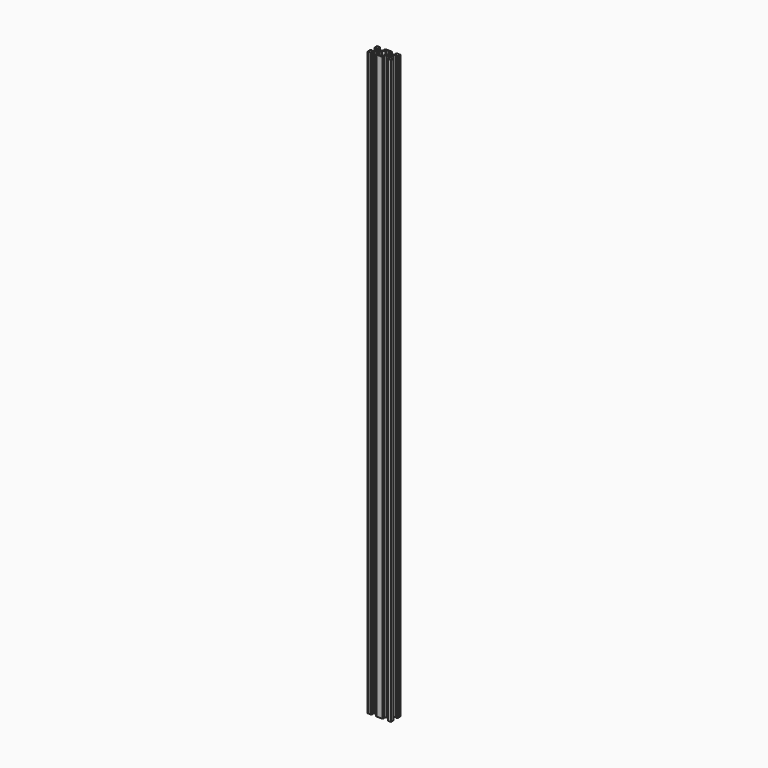
from build123d import *

# Parameters (mm, degrees)
SKETCH_R         = 2.1
PAD_DEPTH        = 1000
CHAMFER_1_ANGLE  = 45
CHAMFER_1_SIZE   = 1.7
CHAMFER_2_ANGLE  = 45
CHAMFER_2_SIZE   = 1.7
CHAMFER_3_ANGLE  = 45
CHAMFER_3_SIZE   = 1.7
CHAMFER_4_ANGLE  = 45
CHAMFER_4_SIZE   = 1.7
CHAMFER_5_ANGLE  = 45
CHAMFER_5_SIZE   = 1.7
CHAMFER_6_ANGLE  = 45
CHAMFER_6_SIZE   = 1.7
CHAMFER_7_ANGLE  = 45
CHAMFER_7_SIZE   = 1.7
CHAMFER_8_ANGLE  = 45
CHAMFER_8_SIZE   = 1.7
CHAMFER_9_ANGLE  = 45
CHAMFER_9_SIZE   = 1.7
CHAMFER_10_ANGLE = 45
CHAMFER_10_SIZE  = 1.7
CHAMFER_11_ANGLE = 45
CHAMFER_11_SIZE  = 1.7
CHAMFER_12_ANGLE = 45
CHAMFER_12_SIZE  = 1.7
FILLET_R         = 0.2


with BuildPart() as part:
    # Sketch → Pad (new body)
    with BuildSketch(Plane.XY):
        Polygon((0, 3.723883), (0.176777, 3.90066), (2.84, 3.90066), (5.49934, 6.56), (5.49934, 8.2), (3.1, 8.2), (3.1, 10), (16.9, 10), (16.9, 8.2), (14.50066, 8.2), (14.50066, 6.56), (17.16, 3.90066), (19.823223, 3.90066), (20, 3.723883), (20.176777, 3.90066), (22.84, 3.90066), (25.49934, 6.56), (25.49934, 8.2), (23.1, 8.2), (23.1, 10), (30, 10), (30, 3.1), (28.2, 3.1), (28.2, 5.49934), (26.56, 5.49934), (23.90066, 2.84), (23.90066, 0.176777), (23.723883, 0), (23.90066, -0.176777), (23.90066, -2.84), (26.56, -5.49934), (28.2, -5.49934), (28.2, -3.1), (30, -3.1), (30, -10), (23.1, -10), (23.1, -8.2), (25.49934, -8.2), (25.49934, -6.56), (22.84, -3.90066), (20.176777, -3.90066), (20, -3.723883), (19.823223, -3.90066), (17.16, -3.90066), (14.50066, -6.56), (14.50066, -8.2), (16.9, -8.2), (16.9, -10), (3.1, -10), (3.1, -8.2), (5.49934, -8.2), (5.49934, -6.56), (2.84, -3.90066), (0.176777, -3.90066), (0, -3.723883), (-0.176777, -3.90066), (-2.84, -3.90066), (-5.49934, -6.56), (-5.49934, -8.2), (-3.1, -8.2), (-3.1, -10), (-10, -10), (-10, -3.1), (-8.2, -3.1), (-8.2, -5.49934), (-6.56, -5.49934), (-3.90066, -2.84), (-3.90066, -0.176777), (-3.723883, 0), (-3.90066, 0.176777), (-3.90066, 2.84), (-6.56, 5.49934), (-8.2, 5.49934), (-8.2, 3.1), (-10, 3.1), (-10, 10), (-3.1, 10), (-3.1, 8.2), (-5.49934, 8.2), (-5.49934, 6.56), (-2.84, 3.90066), (-0.176777, 3.90066), align=None)
        Circle(SKETCH_R, mode=Mode.SUBTRACT)
        with Locations((20, 0)):
            Circle(SKETCH_R, mode=Mode.SUBTRACT)
        Polygon((7.29934, 6.23868), (3.90066, 2.84), (3.90066, 0.176777), (3.723883, 0), (3.90066, -0.176777), (3.90066, -2.84), (7.29934, -6.23868), (7.29934, -8.2), (12.70066, -8.2), (12.70066, -6.23868), (16.09934, -2.84), (16.09934, -0.176777), (16.276117, 0), (16.09934, 0.176777), (16.09934, 2.84), (12.70066, 6.23868), (12.70066, 8.2), (7.29934, 8.2), align=None, mode=Mode.SUBTRACT)
    extrude(amount=PAD_DEPTH)

    # Chamfer 1
    chamfer_1_edges = [part.edges().sort_by_distance(p)[0] for p in [
        (3.1, -10, 500),
    ]]
    chamfer_1_side = part.faces().sort_by_distance((10, -10, 500))[0]
    chamfer(chamfer_1_edges, length=CHAMFER_1_SIZE, angle=CHAMFER_1_ANGLE, reference=chamfer_1_side)

    # Chamfer 2
    chamfer_2_edges = [part.edges().sort_by_distance(p)[0] for p in [
        (16.9, -10, 500),
    ]]
    chamfer_2_side = part.faces().sort_by_distance((16.9, -9.1, 500))[0]
    chamfer(chamfer_2_edges, length=CHAMFER_2_SIZE, angle=CHAMFER_2_ANGLE, reference=chamfer_2_side)

    # Chamfer 3
    chamfer_3_edges = [part.edges().sort_by_distance(p)[0] for p in [
        (23.1, -10, 500),
    ]]
    chamfer_3_side = part.faces().sort_by_distance((26.55, -10, 500))[0]
    chamfer(chamfer_3_edges, length=CHAMFER_3_SIZE, angle=CHAMFER_3_ANGLE, reference=chamfer_3_side)

    # Chamfer 4
    chamfer_4_edges = [part.edges().sort_by_distance(p)[0] for p in [
        (-3.1, -10, 500),
    ]]
    chamfer_4_side = part.faces().sort_by_distance((-3.1, -9.1, 500))[0]
    chamfer(chamfer_4_edges, length=CHAMFER_4_SIZE, angle=CHAMFER_4_ANGLE, reference=chamfer_4_side)

    # Chamfer 5
    chamfer_5_edges = [part.edges().sort_by_distance(p)[0] for p in [
        (30, -3.1, 500),
    ]]
    chamfer_5_side = part.faces().sort_by_distance((29.1, -3.1, 500))[0]
    chamfer(chamfer_5_edges, length=CHAMFER_5_SIZE, angle=CHAMFER_5_ANGLE, reference=chamfer_5_side)

    # Chamfer 6
    chamfer_6_edges = [part.edges().sort_by_distance(p)[0] for p in [
        (30, 3.1, 500),
    ]]
    chamfer_6_side = part.faces().sort_by_distance((30, 6.55, 500))[0]
    chamfer(chamfer_6_edges, length=CHAMFER_6_SIZE, angle=CHAMFER_6_ANGLE, reference=chamfer_6_side)

    # Chamfer 7
    chamfer_7_edges = [part.edges().sort_by_distance(p)[0] for p in [
        (23.1, 10, 500),
    ]]
    chamfer_7_side = part.faces().sort_by_distance((23.1, 9.1, 500))[0]
    chamfer(chamfer_7_edges, length=CHAMFER_7_SIZE, angle=CHAMFER_7_ANGLE, reference=chamfer_7_side)

    # Chamfer 8
    chamfer_8_edges = [part.edges().sort_by_distance(p)[0] for p in [
        (16.9, 10, 500),
    ]]
    chamfer_8_side = part.faces().sort_by_distance((10, 10, 500))[0]
    chamfer(chamfer_8_edges, length=CHAMFER_8_SIZE, angle=CHAMFER_8_ANGLE, reference=chamfer_8_side)

    # Chamfer 9
    chamfer_9_edges = [part.edges().sort_by_distance(p)[0] for p in [
        (3.1, 10, 500),
    ]]
    chamfer_9_side = part.faces().sort_by_distance((3.1, 9.1, 500))[0]
    chamfer(chamfer_9_edges, length=CHAMFER_9_SIZE, angle=CHAMFER_9_ANGLE, reference=chamfer_9_side)

    # Chamfer 10
    chamfer_10_edges = [part.edges().sort_by_distance(p)[0] for p in [
        (-3.1, 10, 500),
    ]]
    chamfer_10_side = part.faces().sort_by_distance((-6.55, 10, 500))[0]
    chamfer(chamfer_10_edges, length=CHAMFER_10_SIZE, angle=CHAMFER_10_ANGLE, reference=chamfer_10_side)

    # Chamfer 11
    chamfer_11_edges = [part.edges().sort_by_distance(p)[0] for p in [
        (-10, -3.1, 500),
    ]]
    chamfer_11_side = part.faces().sort_by_distance((-10, -6.55, 500))[0]
    chamfer(chamfer_11_edges, length=CHAMFER_11_SIZE, angle=CHAMFER_11_ANGLE, reference=chamfer_11_side)

    # Chamfer 12
    chamfer_12_edges = [part.edges().sort_by_distance(p)[0] for p in [
        (-10, 3.1, 500),
    ]]
    chamfer_12_side = part.faces().sort_by_distance((-9.1, 3.1, 500))[0]
    chamfer(chamfer_12_edges, length=CHAMFER_12_SIZE, angle=CHAMFER_12_ANGLE, reference=chamfer_12_side)

    # Fillet
    fillet_edges = [part.edges().sort_by_distance(p)[0] for p in [
        (-10, -10, 500),
        (-10, 10, 500),
        (30, 10, 500),
        (30, -10, 500),
    ]]
    fillet(fillet_edges, radius=FILLET_R)


solid = part.part
